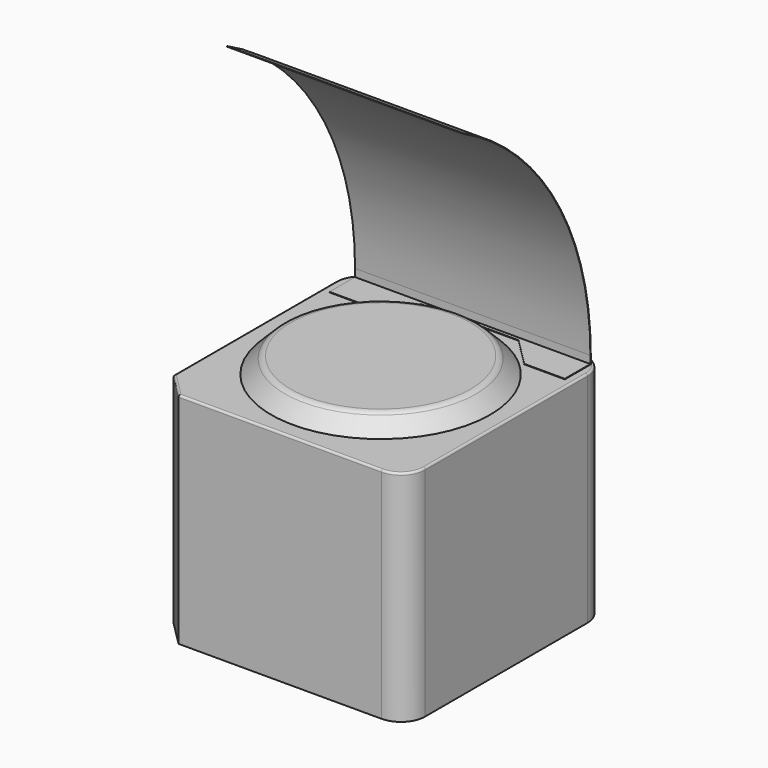
from build123d import *

# Parameters (mm, degrees)
F1_DEPTH      = 685.8
F4_R          = 6.35
F5_R          = 25.4
F7_DEPTH      = 1.5748
F9_DEPTH      = 368.3
F9_DEPTH_BACK = 368.3


with BuildPart() as f1:
    # F0 (on Top) → F1 (new body)
    with BuildSketch(Plane.XY):
        with BuildLine():
            Line((-317.5, -393.7), (317.5, -393.7))
            ThreePointArc((317.5, -393.7), (371.3815367264, -371.3815367264), (393.7, -317.5))
            Line((393.7, -317.5), (393.7, 317.5))
            ThreePointArc((393.7, 317.5), (371.3815367264, 371.3815367264), (317.5, 393.7))
            Line((317.5, 393.7), (-317.5, 393.7))
            ThreePointArc((-317.5, 393.7), (-371.3815367264, 371.3815367264), (-393.7, 317.5))
            Line((-393.7, 317.5), (-393.7, -317.5))
            Line((-393.7, -317.5), (-317.5, -393.7))
        make_face()
    extrude(amount=F1_DEPTH)

    # F2 (on Front) → F3 (revolve)
    with BuildSketch(Plane.XZ):
        Polygon((292.1, 736.6), (0, 736.6), (0, 685.8), (342.9, 685.8), align=None)
    revolve(axis=Axis((0, 0, 685.3453814983), (0, 0, 1)))

    # F4
    f4_edges = [f1.edges().sort_by_distance(p)[0] for p in [
        (371.381537, -371.381537, 685.8),
        (-355.6, -355.6, 685.8),
    ]]
    fillet(f4_edges, radius=F4_R)

    # F5
    f5_edges = [f1.edges().sort_by_distance(p)[0] for p in [
        (-292.1, 0, 736.6),
    ]]
    fillet(f5_edges, radius=F5_R)


with BuildPart() as f7:
    # F6 (on face) → F7 (new body)
    with BuildSketch(Plane.XY.offset(685.8)):
        Polygon((152.4, 349.25), (241.3, 260.35), (368.3, 260.35), (368.3, 361.95), (-368.3, 361.95), (-368.3, 260.35), (-241.3, 260.35), (-152.4, 349.25), align=None)
    extrude(amount=F7_DEPTH)

    # F8 (on Right) → F9 (join, two sides)
    with BuildSketch(Plane.YZ) as f9_sk:
        with BuildLine():
            Line((360.3752, 685.8), (361.95, 685.8))
            Line((361.95, 685.8), (361.95, 711.2))
            ThreePointArc((361.95, 711.2), (226.5063402399, 1190.1095739281), (-139.7, 1527.1441142015))
            Line((-139.7, 1527.1441142015), (-140.4108472222, 1525.7388771159))
            ThreePointArc((-140.4108472222, 1525.7388771159), (225.1648043206, 1189.2847852175), (360.3752, 711.2))
            Line((360.3752, 711.2), (360.3752, 685.8))
        make_face()
    extrude(amount=F9_DEPTH)
    extrude(f9_sk.sketch, amount=-F9_DEPTH_BACK)


solid = Compound([f1.part, f7.part])
